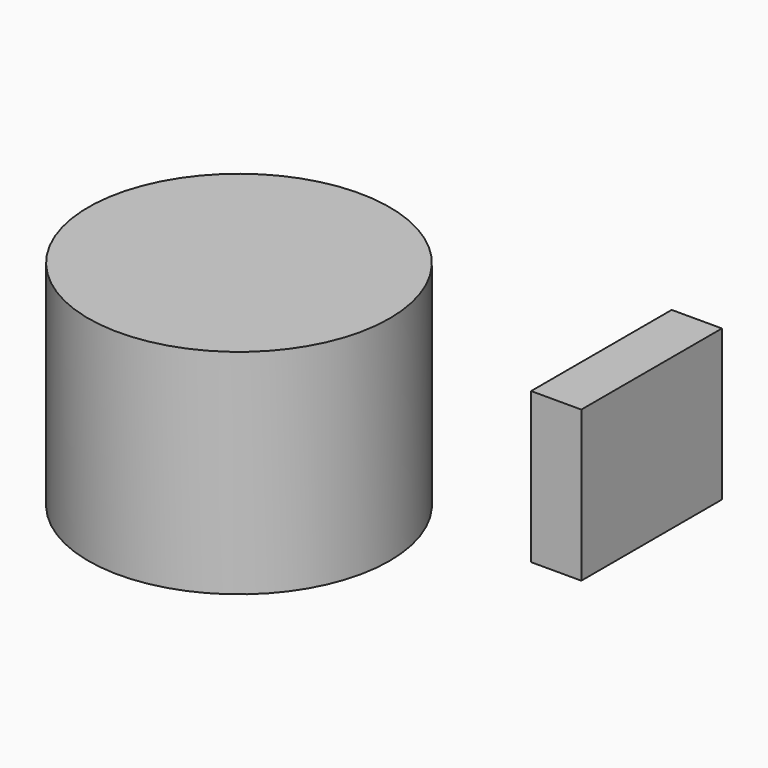
from build123d import *

# Parameters (mm, degrees)
F0_R     = 76.2
F1_DEPTH = 107.95
F2_W     = 25.4
F2_H     = 88.9
F3_DEPTH = 76.2


with BuildPart() as f1:
    # F0 (on Top) → F1 (new body)
    with BuildSketch(Plane.XY):
        with Locations((-41.921102, -51.619276)):
            Circle(F0_R)
    extrude(amount=F1_DEPTH)


with BuildPart() as f3:
    # F2 (on Top) → F3 (new body)
    with BuildSketch(Plane.XY):
        with Locations((91.283136, 26.897146)):
            Rectangle(F2_W, F2_H)
    extrude(amount=F3_DEPTH)


solid = Compound([f1.part, f3.part])
